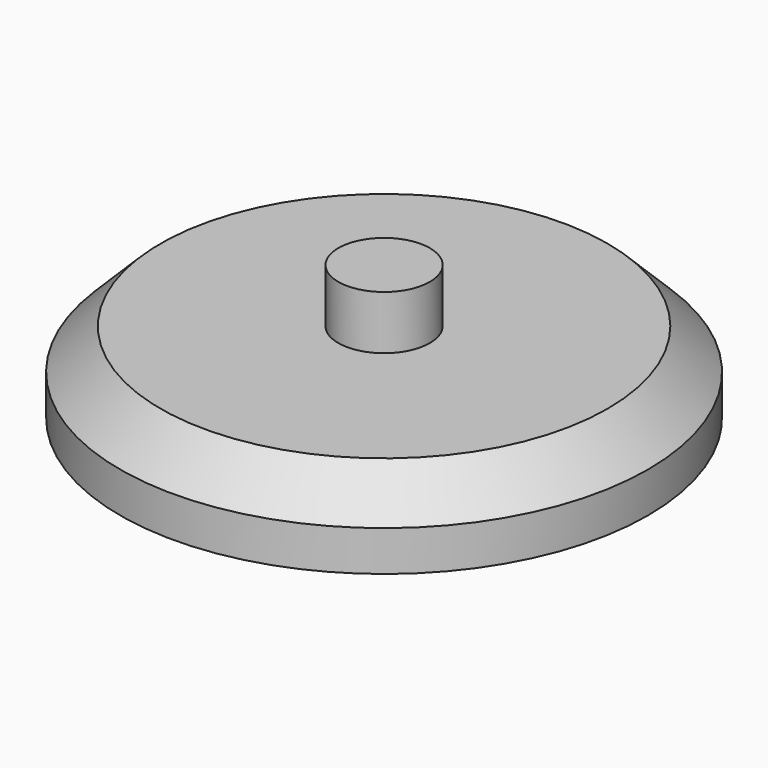
from build123d import *

# Parameters (mm, degrees)
F0_R     = 0.85
F1_DEPTH = 1
F0_R_2   = 4.9
F2_DEPTH = 1.5
F3_SIZE  = 0.75


with BuildPart() as f1:
    # F0 (on Top) → F1 (new body)
    with BuildSketch(Plane.XY):
        Circle(F0_R)
    extrude(amount=F1_DEPTH)

    # F0 (on Top) → F2 (join)
    with BuildSketch(Plane.XY):
        Circle(F0_R_2)
        Circle(F0_R, mode=Mode.SUBTRACT)
        Circle(F0_R)
    extrude(amount=-F2_DEPTH)

    # F3
    f3_edges = [f1.edges().sort_by_distance(p)[0] for p in [
        (-4.9, 0, 0),
    ]]
    chamfer(f3_edges, length=F3_SIZE)


solid = f1.part
